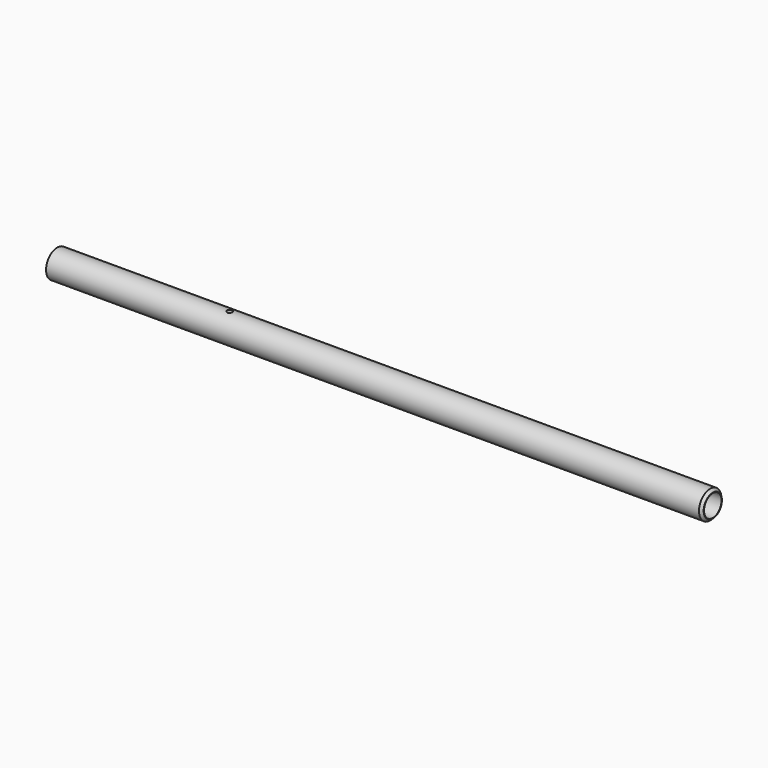
from build123d import *

# Parameters (mm, degrees)
F1_R     = 10.3124
F1_R_2   = 8.0264
F2_DEPTH = 241.3
F4_D     = 3.9624
F4_DEPTH = 12.7
F4_START = 0.1921017
F4_TIP   = 1.1904250584
F5_SIZE  = 1.905


with BuildPart() as f2:
    # F1 (on Right) → F2 (new body, symmetric)
    with BuildSketch(Plane.YZ):
        Circle(F1_R)
        Circle(F1_R_2, mode=Mode.SUBTRACT)
    extrude(amount=F2_DEPTH, both=True)

    # F4
    # its depths count from where the whole tool has entered the part; down to there all is cleared
    with Locations(Plane.XY.offset(10.3124).offset(-F4_START)):
        with Locations((-114.3, 0)):
            Hole(F4_D / 2, depth=F4_DEPTH)
            with Locations((0, 0, -(F4_DEPTH + F4_TIP / 2))):  # 118° drill point
                Cone(0, F4_D / 2, F4_TIP, mode=Mode.SUBTRACT)

    # F5
    f5_edges = [f2.edges().sort_by_distance(p)[0] for p in [
        (241.3, -10.3124, 0),
    ]]
    chamfer(f5_edges, length=F5_SIZE)


solid = f2.part
